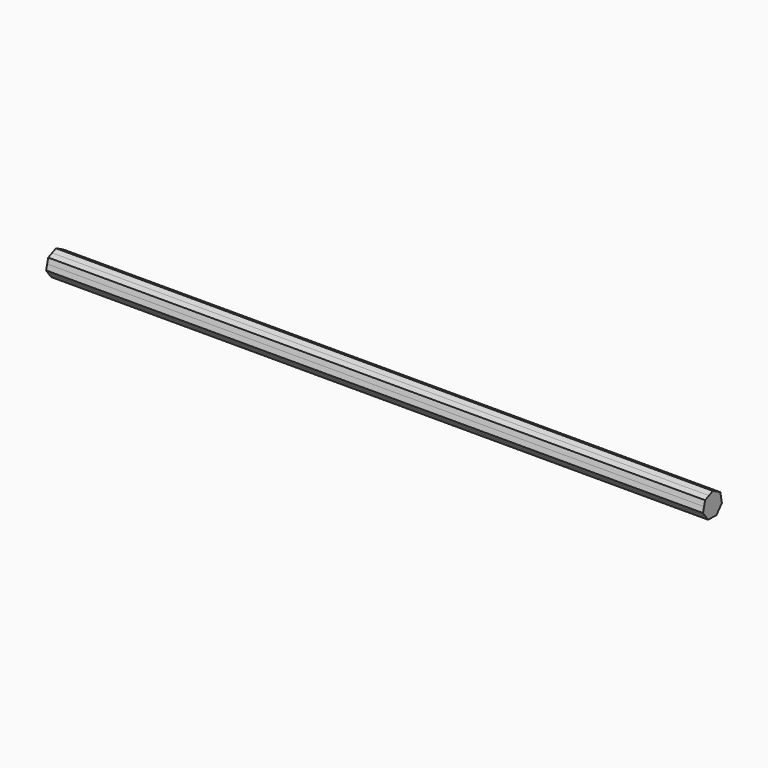
from build123d import *

# Parameters (mm, degrees)
F1_DEPTH = 762


with BuildPart() as f1:
    # F0 (on Right) → F1 (new body)
    with BuildSketch(Plane.YZ):
        with BuildLine():
            ThreePointArc((9.6719592164, -8.2306260343), (11.9189739921, -4.384981069), (12.7, 0))
            ThreePointArc((12.7, 0), (12.6411964641, 1.2207178038), (12.4653304006, 2.4301312732))
            ThreePointArc((12.4653304006, 2.4301312732), (10.1764803528, 7.5979765483), (5.8720537708, 11.2609495387))
            ThreePointArc((5.8720537708, 11.2609495387), (0.4045947135, 12.6935536048), (-5.1429992898, 11.6120436748))
            ThreePointArc((-5.1429992898, 11.6120436748), (-9.6719591426, 8.230626121), (-12.2852689026, 3.2190321511))
            ThreePointArc((-12.2852689026, 3.2190321511), (-12.4653305109, -2.4301307073), (-10.1764804885, -7.5979763666))
            ThreePointArc((-10.1764804885, -7.5979763666), (-5.87205372, -11.2609495652), (-0.4045947011, -12.6935536052))
            ThreePointArc((-0.4045947011, -12.6935536052), (5.1429993088, -11.6120436664), (9.6719592164, -8.2306260343))
        make_face()
        with BuildLine():
            ThreePointArc((12.4653304006, 2.4301312732), (12.6411964641, 1.2207178038), (12.7, 0))
            ThreePointArc((12.7, 0), (11.9189739921, -4.384981069), (9.6719592164, -8.2306260343))
            Line((9.6719592164, -8.2306260343), (13.6356198572, -3.5728557867))
            Line((13.6356198572, -3.5728557867), (12.4653304006, 2.4301312732))
        make_face()
        with BuildLine():
            ThreePointArc((5.8720537708, 11.2609495387), (10.1764803528, 7.5979765483), (12.4653304006, 2.4301312732))
            Line((12.4653304006, 2.4301312732), (11.2950410594, 8.4331177408))
            Line((11.2950410594, 8.4331177408), (5.8720537708, 11.2609495387))
        make_face()
        with BuildLine():
            Line((5.7082987866, -12.8883960339), (9.6719592164, -8.2306260343))
            ThreePointArc((9.6719592164, -8.2306260343), (5.1429993088, -11.6120436664), (-0.4045947011, -12.6935536052))
            Line((-0.4045947011, -12.6935536052), (5.7082987866, -12.8883960339))
        make_face()
        with BuildLine():
            ThreePointArc((-5.1429992898, 11.6120436748), (0.4045947135, 12.6935536048), (5.8720537708, 11.2609495387))
            Line((5.8720537708, 11.2609495387), (0.449065967, 14.0887816053))
            Line((0.449065967, 14.0887816053), (-5.1429992898, 11.6120436748))
        make_face()
        with BuildLine():
            Line((-6.5174876984, -12.4987111922), (-0.4045947011, -12.6935536052))
            ThreePointArc((-0.4045947011, -12.6935536052), (-5.87205372, -11.2609495652), (-10.1764804885, -7.5979763666))
            Line((-10.1764804885, -7.5979763666), (-6.5174876984, -12.4987111922))
        make_face()
        with BuildLine():
            ThreePointArc((-12.2852689026, 3.2190321511), (-9.6719591426, 8.230626121), (-5.1429992898, 11.6120436748))
            Line((-5.1429992898, 11.6120436748), (-10.7350649578, 9.1353055622))
            Line((-10.7350649578, 9.1353055622), (-12.2852689026, 3.2190321511))
        make_face()
        with BuildLine():
            Line((-13.835473014, -2.6972418955), (-10.1764804885, -7.5979763666))
            ThreePointArc((-10.1764804885, -7.5979763666), (-12.4653305109, -2.4301307073), (-12.2852689026, 3.2190321511))
            Line((-12.2852689026, 3.2190321511), (-13.835473014, -2.6972418955))
        make_face()
    extrude(amount=F1_DEPTH)


solid = f1.part
